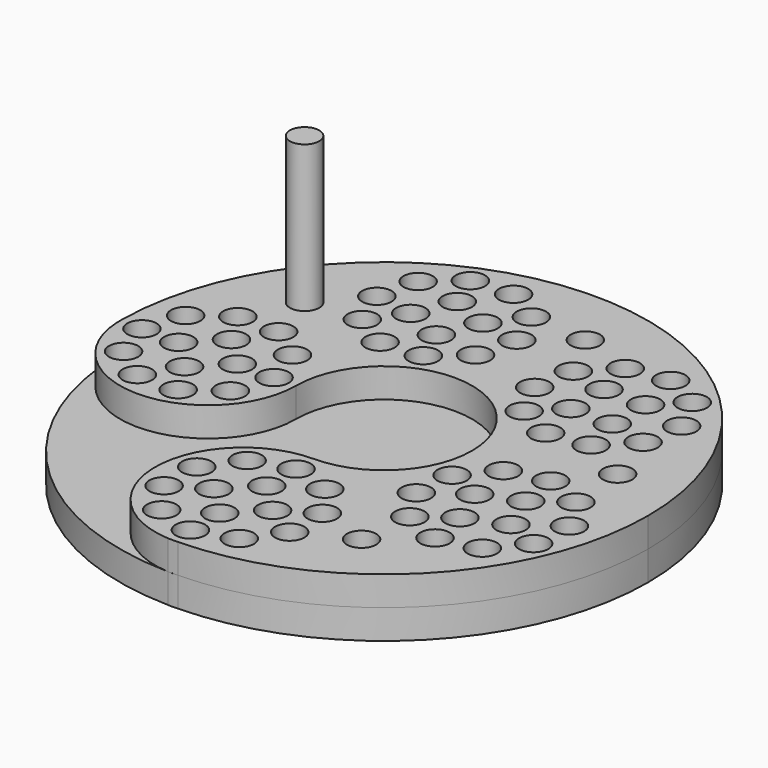
from build123d import *

# Parameters (mm, degrees)
F0_R     = 6.35
F1_DEPTH = 12.7
F2_DEPTH = 12.7
F3_DEPTH = 76.2


with BuildPart() as f1:
    # F0 (on Top) → F1 (new body)
    with BuildSketch(Plane.XY):
        with BuildLine():
            ThreePointArc((-25.020378, 16.589007), (-62.023399, -21.495198), (-101.157209, 14.395959))
            ThreePointArc((-101.157209, 14.395959), (-67.712899, -64.203515), (10.886575, -97.647825))
            ThreePointArc((10.886575, -97.647825), (-25.004582, -58.514015), (13.079622, -21.510993))
            ThreePointArc((13.079622, -21.510993), (-13.861146, -10.351762), (-25.020378, 16.589007))
        make_face()
        with BuildLine():
            ThreePointArc((51.179622, 16.589007), (13.079622, 54.689007), (-25.020378, 16.589007))
            ThreePointArc((-25.020378, 16.589007), (-13.861146, -10.351762), (13.079622, -21.510993))
            ThreePointArc((13.079622, -21.510993), (40.020391, -10.351762), (51.179622, 16.589007))
        make_face()
        with BuildLine():
            ThreePointArc((127.337502, 16.589007), (14.176197, 130.841624), (-101.157209, 18.782054))
            ThreePointArc((-101.157209, 18.782054), (-101.178257, 16.589007), (-101.157209, 14.395959))
            ThreePointArc((-101.157209, 14.395959), (-62.023399, -21.495198), (-25.020378, 16.589007))
            ThreePointArc((-25.020378, 16.589007), (13.079622, 54.689007), (51.179622, 16.589007))
            ThreePointArc((51.179622, 16.589007), (40.020391, -10.351762), (13.079622, -21.510993))
            ThreePointArc((13.079622, -21.510993), (-25.004582, -58.514015), (10.886575, -97.647825))
            ThreePointArc((10.886575, -97.647825), (13.079622, -97.668873), (15.27267, -97.647825))
            ThreePointArc((15.27267, -97.647825), (94.643818, -63.424399), (127.337502, 16.589007))
        make_face()
        with Locations((-3.716341, -82.728654)):
            Circle(F0_R, mode=Mode.SUBTRACT)
        with Locations((-14.096818, -68.441154)):
            Circle(F0_R, mode=Mode.SUBTRACT)
        with Locations((0.379622, -59.610993)):
            Circle(F0_R, mode=Mode.SUBTRACT)
        with Locations((-14.096818, -50.780833)):
            Circle(F0_R, mode=Mode.SUBTRACT)
        with Locations((-86.238038, -0.206957)):
            Circle(F0_R, mode=Mode.SUBTRACT)
        with Locations((-71.950538, -10.587433)):
            Circle(F0_R, mode=Mode.SUBTRACT)
        with Locations((-54.290217, -10.587433)):
            Circle(F0_R, mode=Mode.SUBTRACT)
        with Locations((-63.120378, 3.889007)):
            Circle(F0_R, mode=Mode.SUBTRACT)
        with Locations((-3.716341, -36.493333)):
            Circle(F0_R, mode=Mode.SUBTRACT)
        with Locations((-40.002717, -0.206957)):
            Circle(F0_R, mode=Mode.SUBTRACT)
        with Locations((13.079622, -88.185993)):
            Circle(F0_R, mode=Mode.SUBTRACT)
        with Locations((13.079622, -72.310993)):
            Circle(F0_R, mode=Mode.SUBTRACT)
        with Locations((29.875586, -82.728654)):
            Circle(F0_R, mode=Mode.SUBTRACT)
        with Locations((25.779622, -59.610993)):
            Circle(F0_R, mode=Mode.SUBTRACT)
        with Locations((40.256062, -68.441154)):
            Circle(F0_R, mode=Mode.SUBTRACT)
        with Locations((13.079622, -46.910993)):
            Circle(F0_R, mode=Mode.SUBTRACT)
        with Locations((40.256062, -50.780833)):
            Circle(F0_R, mode=Mode.SUBTRACT)
        with Locations((62.469816, -57.328642)):
            Circle(F0_R, mode=Mode.SUBTRACT)
        with Locations((81.237274, -41.058384)):
            Circle(F0_R, mode=Mode.SUBTRACT)
        with Locations((13.079622, -31.035993)):
            Circle(F0_R, mode=Mode.SUBTRACT)
        with Locations((29.875586, -36.493333)):
            Circle(F0_R, mode=Mode.SUBTRACT)
        with Locations((64.921265, -34.300071)):
            Circle(F0_R, mode=Mode.SUBTRACT)
        with Locations((55.693772, -19.242172)):
            Circle(F0_R, mode=Mode.SUBTRACT)
        with Locations((57.079385, -1.636292)):
            Circle(F0_R, mode=Mode.SUBTRACT)
        with Locations((68.548846, 11.792722)):
            Circle(F0_R, mode=Mode.SUBTRACT)
        with Locations((98.409639, -36.935664)):
            Circle(F0_R, mode=Mode.SUBTRACT)
        with Locations((78.619163, -24.304741)):
            Circle(F0_R, mode=Mode.SUBTRACT)
        with Locations((95.212513, -17.43155)):
            Circle(F0_R, mode=Mode.SUBTRACT)
        with Locations((109.8791, -23.50665)):
            Circle(F0_R, mode=Mode.SUBTRACT)
        with Locations((71.745973, -7.711391)):
            Circle(F0_R, mode=Mode.SUBTRACT)
        with Locations((88.339322, -0.838201)):
            Circle(F0_R, mode=Mode.SUBTRACT)
        with Locations((85.721211, 15.915442)):
            Circle(F0_R, mode=Mode.SUBTRACT)
        with Locations((111.264713, -5.90077)):
            Circle(F0_R, mode=Mode.SUBTRACT)
        with Locations((102.037221, 9.15713)):
            Circle(F0_R, mode=Mode.SUBTRACT)
        with Locations((-91.695378, 16.589007)):
            Circle(F0_R, mode=Mode.SUBTRACT)
        with Locations((-75.820378, 16.589007)):
            Circle(F0_R, mode=Mode.SUBTRACT)
        with Locations((-86.238038, 33.38497)):
            Circle(F0_R, mode=Mode.SUBTRACT)
        with Locations((-63.120378, 29.289007)):
            Circle(F0_R, mode=Mode.SUBTRACT)
        with Locations((-50.420378, 16.589007)):
            Circle(F0_R, mode=Mode.SUBTRACT)
        with Locations((-71.950538, 43.765447)):
            Circle(F0_R, mode=Mode.SUBTRACT)
        with Locations((-54.290217, 43.765447)):
            Circle(F0_R, mode=Mode.SUBTRACT)
        with Locations((-60.838026, 65.9792)):
            Circle(F0_R, mode=Mode.SUBTRACT)
        with Locations((-34.545378, 16.589007)):
            Circle(F0_R, mode=Mode.SUBTRACT)
        with Locations((-40.002717, 33.38497)):
            Circle(F0_R, mode=Mode.SUBTRACT)
        with Locations((-22.751556, 59.203157)):
            Circle(F0_R, mode=Mode.SUBTRACT)
        with Locations((-37.809456, 68.430649)):
            Circle(F0_R, mode=Mode.SUBTRACT)
        with Locations((-5.145676, 60.588769)):
            Circle(F0_R, mode=Mode.SUBTRACT)
        with Locations((8.283338, 72.058231)):
            Circle(F0_R, mode=Mode.SUBTRACT)
        with Locations((-44.567768, 84.746658)):
            Circle(F0_R, mode=Mode.SUBTRACT)
        with Locations((-27.814125, 82.128547)):
            Circle(F0_R, mode=Mode.SUBTRACT)
        with Locations((-40.445048, 101.919024)):
            Circle(F0_R, mode=Mode.SUBTRACT)
        with Locations((-20.940935, 98.721897)):
            Circle(F0_R, mode=Mode.SUBTRACT)
        with Locations((-11.220776, 75.255357)):
            Circle(F0_R, mode=Mode.SUBTRACT)
        with Locations((-4.347585, 91.848707)):
            Circle(F0_R, mode=Mode.SUBTRACT)
        with Locations((12.406058, 89.230596)):
            Circle(F0_R, mode=Mode.SUBTRACT)
        with Locations((-27.016034, 113.388485)):
            Circle(F0_R, mode=Mode.SUBTRACT)
        with Locations((-9.410154, 114.774098)):
            Circle(F0_R, mode=Mode.SUBTRACT)
        with Locations((5.647745, 105.546605)):
            Circle(F0_R, mode=Mode.SUBTRACT)
        with Locations((62.491044, 42.247349)):
            Circle(F0_R, mode=Mode.SUBTRACT)
        with Locations((38.737965, 66.000429)):
            Circle(F0_R, mode=Mode.SUBTRACT)
        with Locations((46.755583, 50.264967)):
            Circle(F0_R, mode=Mode.SUBTRACT)
        with Locations((57.980903, 61.490287)):
            Circle(F0_R, mode=Mode.SUBTRACT)
        with Locations((79.933938, 45.010032)):
            Circle(F0_R, mode=Mode.SUBTRACT)
        with Locations((100.271434, 33.932536)):
            Circle(F0_R, mode=Mode.SUBTRACT)
        with Locations((92.421671, 57.497765)):
            Circle(F0_R, mode=Mode.SUBTRACT)
        with Locations((75.941415, 61.490287)):
            Circle(F0_R, mode=Mode.SUBTRACT)
        with Locations((41.500648, 83.443322)):
            Circle(F0_R, mode=Mode.SUBTRACT)
        with Locations((57.980903, 79.4508)):
            Circle(F0_R, mode=Mode.SUBTRACT)
        with Locations((53.988381, 95.931055)):
            Circle(F0_R, mode=Mode.SUBTRACT)
        with Locations((30.423152, 103.780818)):
            Circle(F0_R, mode=Mode.SUBTRACT)
        with Locations((75.941415, 79.4508)):
            Circle(F0_R, mode=Mode.SUBTRACT)
        with Locations((95.184353, 74.940658)):
            Circle(F0_R, mode=Mode.SUBTRACT)
        with Locations((71.431274, 98.693738)):
            Circle(F0_R, mode=Mode.SUBTRACT)
        with Locations((87.166735, 90.67612)):
            Circle(F0_R, mode=Mode.SUBTRACT)
        with Locations((-86.238038, 33.38497)):
            Circle(F0_R)
        with Locations((-14.096818, -50.780833)):
            Circle(F0_R)
        with Locations((13.079622, -46.910993)):
            Circle(F0_R)
        with Locations((13.079622, -88.185993)):
            Circle(F0_R)
        with Locations((-71.950538, 43.765447)):
            Circle(F0_R)
        with Locations((-3.716341, -36.493333)):
            Circle(F0_R)
        with Locations((29.875586, -36.493333)):
            Circle(F0_R)
        with Locations((13.079622, -72.310993)):
            Circle(F0_R)
        with Locations((64.921265, -34.300071)):
            Circle(F0_R)
        with Locations((-14.096818, -68.441154)):
            Circle(F0_R)
        with Locations((-3.716341, -82.728654)):
            Circle(F0_R)
        with Locations((13.079622, -31.035993)):
            Circle(F0_R)
        with Locations((71.745973, -7.711391)):
            Circle(F0_R)
        with Locations((-75.820378, 16.589007)):
            Circle(F0_R)
        with Locations((40.256062, -68.441154)):
            Circle(F0_R)
        with Locations((111.264713, -5.90077)):
            Circle(F0_R)
        with Locations((55.693772, -19.242172)):
            Circle(F0_R)
        with Locations((-86.238038, -0.206957)):
            Circle(F0_R)
        with Locations((85.721211, 15.915442)):
            Circle(F0_R)
        with Locations((-40.002717, -0.206957)):
            Circle(F0_R)
        with Locations((95.212513, -17.43155)):
            Circle(F0_R)
        with Locations((109.8791, -23.50665)):
            Circle(F0_R)
        with Locations((98.409639, -36.935664)):
            Circle(F0_R)
        with Locations((-91.695378, 16.589007)):
            Circle(F0_R)
        with Locations((29.875586, -82.728654)):
            Circle(F0_R)
        with Locations((81.237274, -41.058384)):
            Circle(F0_R)
        with Locations((0.379622, -59.610993)):
            Circle(F0_R)
        with Locations((92.421671, 57.497765)):
            Circle(F0_R)
        with Locations((95.184353, 74.940658)):
            Circle(F0_R)
        with Locations((-63.120378, 3.889007)):
            Circle(F0_R)
        with Locations((57.079385, -1.636292)):
            Circle(F0_R)
        with Locations((102.037221, 9.15713)):
            Circle(F0_R)
        with BuildLine():
            ThreePointArc((15.27267, -97.647825), (13.079622, -97.668873), (10.886575, -97.647825))
            ThreePointArc((10.886575, -97.647825), (13.079622, -97.710993), (15.27267, -97.647825))
        make_face()
        with Locations((25.779622, -59.610993)):
            Circle(F0_R)
        with Locations((78.619163, -24.304741)):
            Circle(F0_R)
        with Locations((88.339322, -0.838201)):
            Circle(F0_R)
        with Locations((-71.950538, -10.587433)):
            Circle(F0_R)
        with Locations((40.256062, -50.780833)):
            Circle(F0_R)
        with Locations((-54.290217, -10.587433)):
            Circle(F0_R)
        with Locations((79.933938, 45.010032)):
            Circle(F0_R)
        with Locations((-40.445048, 101.919024)):
            Circle(F0_R)
        with Locations((75.941415, 79.4508)):
            Circle(F0_R)
        with Locations((53.988381, 95.931055)):
            Circle(F0_R)
        with Locations((-50.420378, 16.589007)):
            Circle(F0_R)
        with Locations((-5.145676, 60.588769)):
            Circle(F0_R)
        with Locations((71.431274, 98.693738)):
            Circle(F0_R)
        with BuildLine():
            ThreePointArc((-101.157209, 14.395959), (-101.178257, 16.589007), (-101.157209, 18.782054))
            ThreePointArc((-101.157209, 18.782054), (-101.220378, 16.589007), (-101.157209, 14.395959))
        make_face()
        with Locations((-54.290217, 43.765447)):
            Circle(F0_R)
        with Locations((-11.220776, 75.255357)):
            Circle(F0_R)
        with Locations((57.980903, 79.4508)):
            Circle(F0_R)
        with Locations((5.647745, 105.546605)):
            Circle(F0_R)
        with Locations((8.283338, 72.058231)):
            Circle(F0_R)
        with Locations((-4.347585, 91.848707)):
            Circle(F0_R)
        with Locations((12.406058, 89.230596)):
            Circle(F0_R)
        with Locations((57.980903, 61.490287)):
            Circle(F0_R)
        with Locations((-20.940935, 98.721897)):
            Circle(F0_R)
        with Locations((-34.545378, 16.589007)):
            Circle(F0_R)
        with Locations((-44.567768, 84.746658)):
            Circle(F0_R)
        with Locations((75.941415, 61.490287)):
            Circle(F0_R)
        with Locations((-37.809456, 68.430649)):
            Circle(F0_R)
        with Locations((46.755583, 50.264967)):
            Circle(F0_R)
        with Locations((62.491044, 42.247349)):
            Circle(F0_R)
        with Locations((-22.751556, 59.203157)):
            Circle(F0_R)
        with Locations((-63.120378, 29.289007)):
            Circle(F0_R)
        with Locations((-27.016034, 113.388485)):
            Circle(F0_R)
        with Locations((38.737965, 66.000429)):
            Circle(F0_R)
        with Locations((87.166735, 90.67612)):
            Circle(F0_R)
        with Locations((68.548846, 11.792722)):
            Circle(F0_R)
        with Locations((-9.410154, 114.774098)):
            Circle(F0_R)
        with Locations((-27.814125, 82.128547)):
            Circle(F0_R)
        with Locations((-40.002717, 33.38497)):
            Circle(F0_R)
        with Locations((41.500648, 83.443322)):
            Circle(F0_R)
    extrude(amount=-F1_DEPTH)


with BuildPart() as f2:
    # F0 (on Top) → F2 (new body)
    with BuildSketch(Plane.XY):
        with BuildLine():
            ThreePointArc((127.337502, 16.589007), (14.176197, 130.841624), (-101.157209, 18.782054))
            ThreePointArc((-101.157209, 18.782054), (-101.178257, 16.589007), (-101.157209, 14.395959))
            ThreePointArc((-101.157209, 14.395959), (-62.023399, -21.495198), (-25.020378, 16.589007))
            ThreePointArc((-25.020378, 16.589007), (13.079622, 54.689007), (51.179622, 16.589007))
            ThreePointArc((51.179622, 16.589007), (40.020391, -10.351762), (13.079622, -21.510993))
            ThreePointArc((13.079622, -21.510993), (-25.004582, -58.514015), (10.886575, -97.647825))
            ThreePointArc((10.886575, -97.647825), (13.079622, -97.668873), (15.27267, -97.647825))
            ThreePointArc((15.27267, -97.647825), (94.643818, -63.424399), (127.337502, 16.589007))
        make_face()
        with Locations((-3.716341, -82.728654)):
            Circle(F0_R, mode=Mode.SUBTRACT)
        with Locations((-14.096818, -68.441154)):
            Circle(F0_R, mode=Mode.SUBTRACT)
        with Locations((0.379622, -59.610993)):
            Circle(F0_R, mode=Mode.SUBTRACT)
        with Locations((-14.096818, -50.780833)):
            Circle(F0_R, mode=Mode.SUBTRACT)
        with Locations((-86.238038, -0.206957)):
            Circle(F0_R, mode=Mode.SUBTRACT)
        with Locations((-71.950538, -10.587433)):
            Circle(F0_R, mode=Mode.SUBTRACT)
        with Locations((-54.290217, -10.587433)):
            Circle(F0_R, mode=Mode.SUBTRACT)
        with Locations((-63.120378, 3.889007)):
            Circle(F0_R, mode=Mode.SUBTRACT)
        with Locations((-3.716341, -36.493333)):
            Circle(F0_R, mode=Mode.SUBTRACT)
        with Locations((-40.002717, -0.206957)):
            Circle(F0_R, mode=Mode.SUBTRACT)
        with Locations((13.079622, -88.185993)):
            Circle(F0_R, mode=Mode.SUBTRACT)
        with Locations((13.079622, -72.310993)):
            Circle(F0_R, mode=Mode.SUBTRACT)
        with Locations((29.875586, -82.728654)):
            Circle(F0_R, mode=Mode.SUBTRACT)
        with Locations((25.779622, -59.610993)):
            Circle(F0_R, mode=Mode.SUBTRACT)
        with Locations((40.256062, -68.441154)):
            Circle(F0_R, mode=Mode.SUBTRACT)
        with Locations((13.079622, -46.910993)):
            Circle(F0_R, mode=Mode.SUBTRACT)
        with Locations((40.256062, -50.780833)):
            Circle(F0_R, mode=Mode.SUBTRACT)
        with Locations((62.469816, -57.328642)):
            Circle(F0_R, mode=Mode.SUBTRACT)
        with Locations((81.237274, -41.058384)):
            Circle(F0_R, mode=Mode.SUBTRACT)
        with Locations((13.079622, -31.035993)):
            Circle(F0_R, mode=Mode.SUBTRACT)
        with Locations((29.875586, -36.493333)):
            Circle(F0_R, mode=Mode.SUBTRACT)
        with Locations((64.921265, -34.300071)):
            Circle(F0_R, mode=Mode.SUBTRACT)
        with Locations((55.693772, -19.242172)):
            Circle(F0_R, mode=Mode.SUBTRACT)
        with Locations((57.079385, -1.636292)):
            Circle(F0_R, mode=Mode.SUBTRACT)
        with Locations((68.548846, 11.792722)):
            Circle(F0_R, mode=Mode.SUBTRACT)
        with Locations((98.409639, -36.935664)):
            Circle(F0_R, mode=Mode.SUBTRACT)
        with Locations((78.619163, -24.304741)):
            Circle(F0_R, mode=Mode.SUBTRACT)
        with Locations((95.212513, -17.43155)):
            Circle(F0_R, mode=Mode.SUBTRACT)
        with Locations((109.8791, -23.50665)):
            Circle(F0_R, mode=Mode.SUBTRACT)
        with Locations((71.745973, -7.711391)):
            Circle(F0_R, mode=Mode.SUBTRACT)
        with Locations((88.339322, -0.838201)):
            Circle(F0_R, mode=Mode.SUBTRACT)
        with Locations((85.721211, 15.915442)):
            Circle(F0_R, mode=Mode.SUBTRACT)
        with Locations((111.264713, -5.90077)):
            Circle(F0_R, mode=Mode.SUBTRACT)
        with Locations((102.037221, 9.15713)):
            Circle(F0_R, mode=Mode.SUBTRACT)
        with Locations((-91.695378, 16.589007)):
            Circle(F0_R, mode=Mode.SUBTRACT)
        with Locations((-75.820378, 16.589007)):
            Circle(F0_R, mode=Mode.SUBTRACT)
        with Locations((-86.238038, 33.38497)):
            Circle(F0_R, mode=Mode.SUBTRACT)
        with Locations((-63.120378, 29.289007)):
            Circle(F0_R, mode=Mode.SUBTRACT)
        with Locations((-50.420378, 16.589007)):
            Circle(F0_R, mode=Mode.SUBTRACT)
        with Locations((-71.950538, 43.765447)):
            Circle(F0_R, mode=Mode.SUBTRACT)
        with Locations((-54.290217, 43.765447)):
            Circle(F0_R, mode=Mode.SUBTRACT)
        with Locations((-60.838026, 65.9792)):
            Circle(F0_R, mode=Mode.SUBTRACT)
        with Locations((-34.545378, 16.589007)):
            Circle(F0_R, mode=Mode.SUBTRACT)
        with Locations((-40.002717, 33.38497)):
            Circle(F0_R, mode=Mode.SUBTRACT)
        with Locations((-22.751556, 59.203157)):
            Circle(F0_R, mode=Mode.SUBTRACT)
        with Locations((-37.809456, 68.430649)):
            Circle(F0_R, mode=Mode.SUBTRACT)
        with Locations((-5.145676, 60.588769)):
            Circle(F0_R, mode=Mode.SUBTRACT)
        with Locations((8.283338, 72.058231)):
            Circle(F0_R, mode=Mode.SUBTRACT)
        with Locations((-44.567768, 84.746658)):
            Circle(F0_R, mode=Mode.SUBTRACT)
        with Locations((-27.814125, 82.128547)):
            Circle(F0_R, mode=Mode.SUBTRACT)
        with Locations((-40.445048, 101.919024)):
            Circle(F0_R, mode=Mode.SUBTRACT)
        with Locations((-20.940935, 98.721897)):
            Circle(F0_R, mode=Mode.SUBTRACT)
        with Locations((-11.220776, 75.255357)):
            Circle(F0_R, mode=Mode.SUBTRACT)
        with Locations((-4.347585, 91.848707)):
            Circle(F0_R, mode=Mode.SUBTRACT)
        with Locations((12.406058, 89.230596)):
            Circle(F0_R, mode=Mode.SUBTRACT)
        with Locations((-27.016034, 113.388485)):
            Circle(F0_R, mode=Mode.SUBTRACT)
        with Locations((-9.410154, 114.774098)):
            Circle(F0_R, mode=Mode.SUBTRACT)
        with Locations((5.647745, 105.546605)):
            Circle(F0_R, mode=Mode.SUBTRACT)
        with Locations((62.491044, 42.247349)):
            Circle(F0_R, mode=Mode.SUBTRACT)
        with Locations((38.737965, 66.000429)):
            Circle(F0_R, mode=Mode.SUBTRACT)
        with Locations((46.755583, 50.264967)):
            Circle(F0_R, mode=Mode.SUBTRACT)
        with Locations((57.980903, 61.490287)):
            Circle(F0_R, mode=Mode.SUBTRACT)
        with Locations((79.933938, 45.010032)):
            Circle(F0_R, mode=Mode.SUBTRACT)
        with Locations((100.271434, 33.932536)):
            Circle(F0_R, mode=Mode.SUBTRACT)
        with Locations((92.421671, 57.497765)):
            Circle(F0_R, mode=Mode.SUBTRACT)
        with Locations((75.941415, 61.490287)):
            Circle(F0_R, mode=Mode.SUBTRACT)
        with Locations((41.500648, 83.443322)):
            Circle(F0_R, mode=Mode.SUBTRACT)
        with Locations((57.980903, 79.4508)):
            Circle(F0_R, mode=Mode.SUBTRACT)
        with Locations((53.988381, 95.931055)):
            Circle(F0_R, mode=Mode.SUBTRACT)
        with Locations((30.423152, 103.780818)):
            Circle(F0_R, mode=Mode.SUBTRACT)
        with Locations((75.941415, 79.4508)):
            Circle(F0_R, mode=Mode.SUBTRACT)
        with Locations((95.184353, 74.940658)):
            Circle(F0_R, mode=Mode.SUBTRACT)
        with Locations((71.431274, 98.693738)):
            Circle(F0_R, mode=Mode.SUBTRACT)
        with Locations((87.166735, 90.67612)):
            Circle(F0_R, mode=Mode.SUBTRACT)
    extrude(amount=F2_DEPTH)


with BuildPart() as f3:
    # F0 (on Top) → F3 (new body)
    with BuildSketch(Plane.XY):
        with Locations((-60.838026, 65.9792)):
            Circle(F0_R)
    extrude(amount=F3_DEPTH)


solid = Compound([f1.part, f2.part, f3.part])
